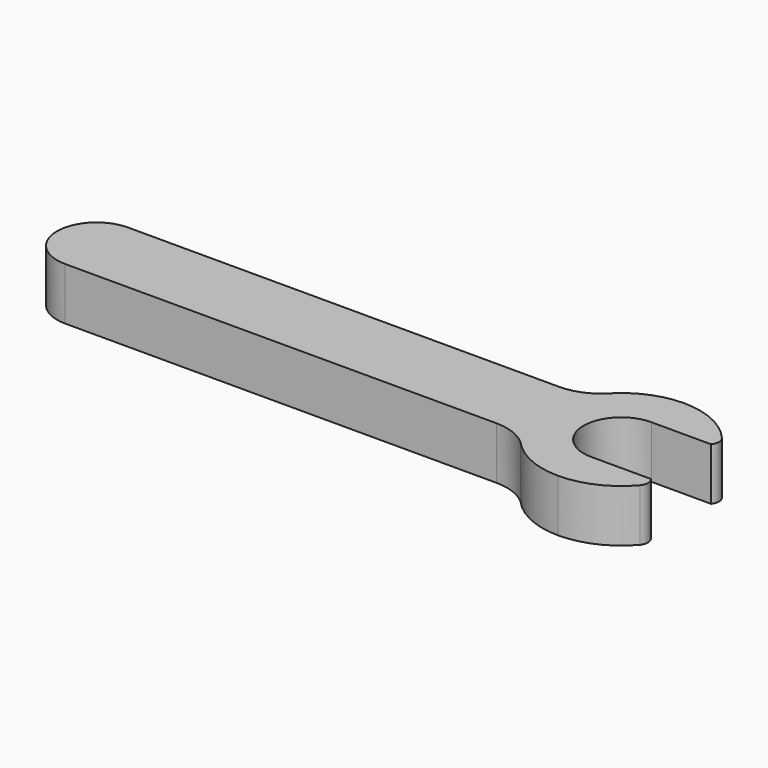
from build123d import *

# Parameters (mm, degrees)
F1_DEPTH = 6.35


with BuildPart() as f1:
    # F0 (on Top) → F1 (new body)
    with BuildSketch(Plane.XY):
        with BuildLine():
            Line((20.450266, 4.762499), (-31.75, 4.7752))
            ThreePointArc((-31.75, 4.7752), (-36.5252, 0), (-31.75, -4.7752))
            Line((-31.75, -4.7752), (20.450266, -4.762499))
            ThreePointArc((20.450266, -4.762499), (22.691885, -5.170734), (24.645094, -6.343969))
            ThreePointArc((24.645094, -6.343969), (27.857743, -8.693444), (31.75, -9.525))
            ThreePointArc((31.75, -9.525), (35.728305, -8.654404), (38.979367, -6.201764))
            ThreePointArc((38.979367, -6.201764), (39.285451, -5.374863), (38.979367, -4.547961))
            Line((38.979367, -4.547961), (31.75, -4.547961))
            ThreePointArc((31.75, -4.547961), (27.202039, 0), (31.75, 4.547961))
            Line((31.75, 4.547961), (38.979367, 4.547961))
            ThreePointArc((38.979367, 4.547961), (39.285451, 5.374863), (38.979367, 6.201764))
            ThreePointArc((38.979367, 6.201764), (35.728305, 8.654404), (31.75, 9.525))
            ThreePointArc((31.75, 9.525), (27.857743, 8.693444), (24.645094, 6.343969))
            ThreePointArc((24.645094, 6.343969), (22.691885, 5.170734), (20.450266, 4.762499))
        make_face()
    extrude(amount=F1_DEPTH)


solid = f1.part
